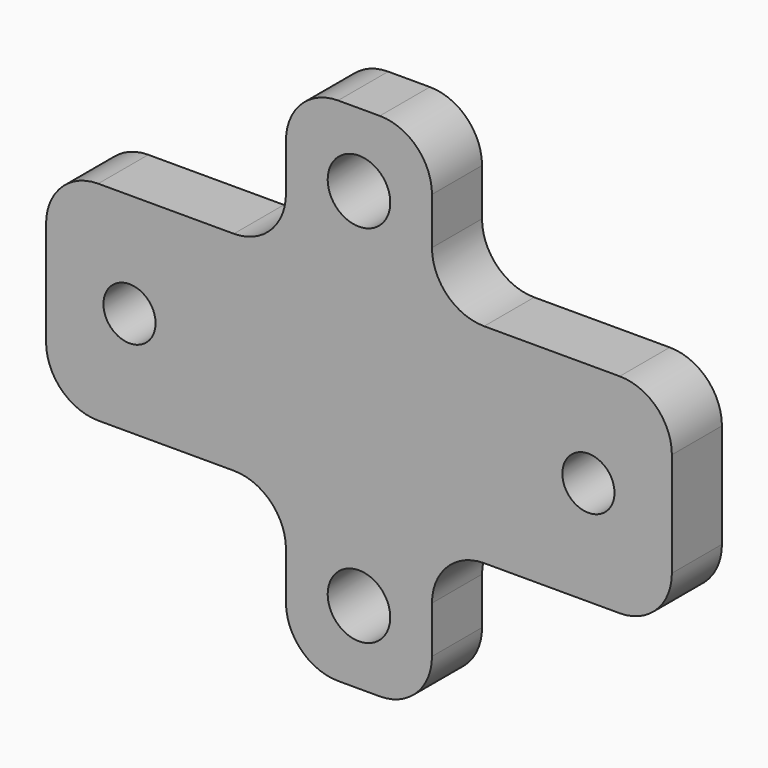
from build123d import *

# Parameters (mm, degrees)
F1_DEPTH = 6
F2_D     = 6
F3_D     = 5
F4_R     = 5


with BuildPart() as f1:
    # F0 (on Front) → F1 (new body)
    with BuildSketch(Plane.XZ):
        Polygon((-7, -24.5), (7, -24.5), (7, -10), (30, -10), (30, 10), (7, 10), (7, 24.5), (-7, 24.5), (-7, 10), (-30, 10), (-30, -10), (-7, -10), align=None)
    extrude(amount=-F1_DEPTH)

    # F2 (through all)
    with Locations(Plane.XZ):
        with Locations((0, 17.5), (0, -17.5)):
            Hole(F2_D / 2)

    # F3 (through all)
    with Locations(Plane.XZ):
        with Locations((22, 0), (-22, 0)):
            Hole(F3_D / 2)

    # F4
    f4_edges = [f1.edges().sort_by_distance(p)[0] for p in [
        (7, 3, 24.5),
        (7, 3, 10),
        (30, 3, 10),
        (30, 3, -10),
        (7, 3, -24.5),
        (7, 3, -10),
        (-7, 3, -24.5),
        (-30, 3, -10),
        (-7, 3, -10),
        (-30, 3, 10),
        (-7, 3, 10),
        (-7, 3, 24.5),
    ]]
    fillet(f4_edges, radius=F4_R)


solid = f1.part
